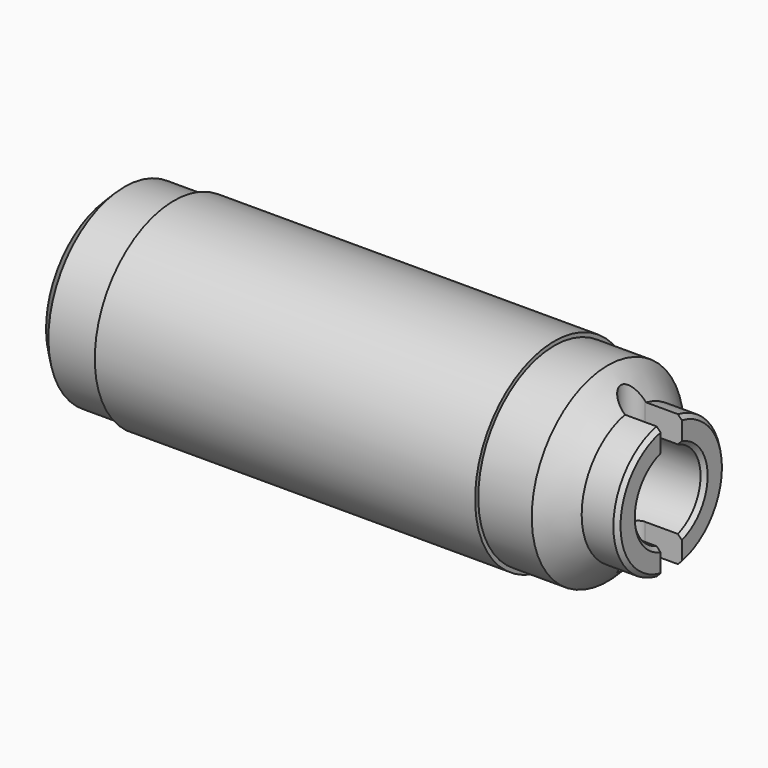
from build123d import *

# Parameters (mm, degrees)
F0_R           = 10.6
F1_DEPTH       = 28.75
F2_R           = 12.5
F2_R_2         = 10.6
F3_DEPTH       = 24
F6_SIZE        = 1.5
F7_R           = 4
F8_DEPTH       = 1
F9_R           = 5.25
F10_DEPTH      = 25
F12_DEPTH      = 12.501
F12_DEPTH_BACK = 12.501
F13_SIZE       = 0.5


with BuildPart() as f1:
    # F0 (on Right) → F1 (new body, symmetric)
    with BuildSketch(Plane.YZ):
        Circle(F0_R)
    extrude(amount=F1_DEPTH, both=True)


with BuildPart() as f3:
    # F2 (on Right) → F3 (new body, symmetric)
    with BuildSketch(Plane.YZ):
        Circle(F2_R)
        Circle(F2_R_2, mode=Mode.SUBTRACT)
    extrude(amount=F3_DEPTH, both=True)


with BuildPart() as f5:
    # F4 (on Front) → F5 (revolve)
    with BuildSketch(Plane.XZ):
        Polygon((30.75, 12), (23.5, 12), (23.5, 10.9), (28.75, 10.9), (28.75, 0), (38.75, 0), (38.75, 8.5), (34.25, 8.5), align=None)
    revolve(axis=Axis((0, 0, 0), (1, 0, 0)))

    # F9 (on face) → F10 (cut)
    with BuildSketch(Plane.YZ.offset(38.75)):
        Circle(F9_R)
    extrude(amount=-F10_DEPTH, mode=Mode.SUBTRACT)

    # F11 (on Top) → F12 (cut, two sides)
    with BuildSketch(Plane.XY) as f12_sk:
        with BuildLine():
            Line((38.75, 1.675), (34.075, 1.675))
            ThreePointArc((34.075, 1.675), (32.4, 0), (34.075, -1.675))
            Line((34.075, -1.675), (38.75, -1.675))
            Line((38.75, -1.675), (38.75, 1.675))
        make_face()
    extrude(amount=-F12_DEPTH, mode=Mode.SUBTRACT)
    extrude(f12_sk.sketch, amount=F12_DEPTH_BACK, mode=Mode.SUBTRACT)

    # F13
    f13_edges = [f5.edges().sort_by_distance(p)[0] for p in [
        (38.75, 8.5, 0),
        (38.75, -8.5, 0),
        (38.75, -5.25, 0),
        (38.75, 4.263581, 3.063393),
        (38.75, 4.263581, -3.063393),
    ]]
    chamfer(f13_edges, length=F13_SIZE)


with BuildPart() as f5b:
    # F4 (on Front) → F5, piece 2 (revolve)
    with BuildSketch(Plane.XZ):
        Polygon((-23.5, 10.9), (-23.5, 12), (-31.75, 12), (-31.75, 4), (-32.75, 4), (-32.75, 2.875), (-28.75, 2.875), (-28.75, 10.9), align=None)
    revolve(axis=Axis((0, 0, 0), (1, 0, 0)))

    # F6
    f6_edges = [f5b.edges().sort_by_distance(p)[0] for p in [
        (-31.75, 0, -12),
    ]]
    chamfer(f6_edges, length=F6_SIZE)

    # F7 (on face) → F8 (cut, through all)
    with BuildSketch(Plane(origin=(-32.75, 0, 0), x_dir=(0, -1, 0), z_dir=(-1, 0, 0))):
        Circle(F7_R)
    extrude(amount=-F8_DEPTH, mode=Mode.SUBTRACT)


solid = Compound([f1.part, f3.part, f5.part, f5b.part])
